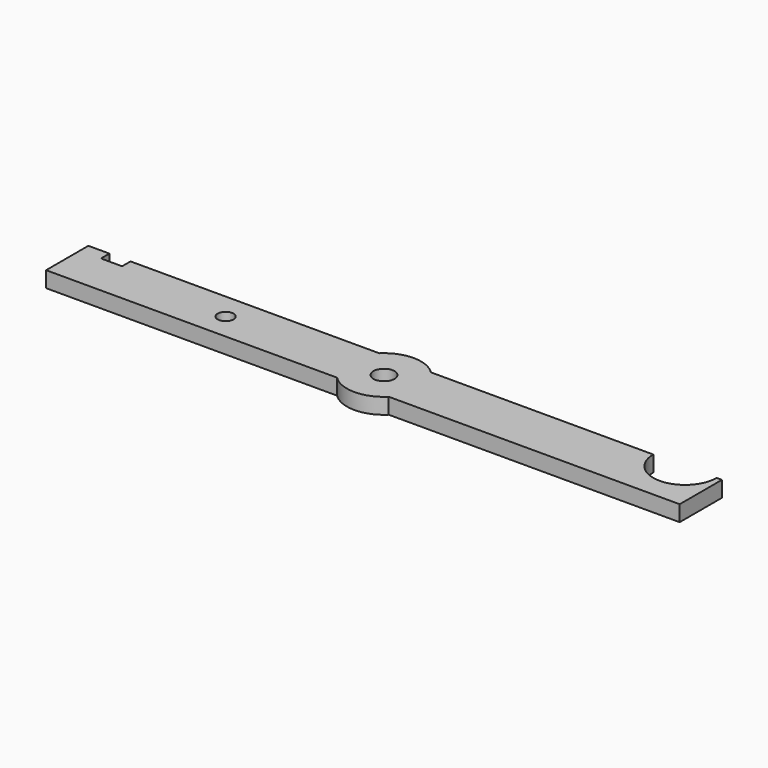
from build123d import *

# Parameters (mm, degrees)
F0_R     = 1.5
F0_R_2   = 2
F1_DEPTH = 3


with BuildPart() as f1:
    # F0 (on Top) → F1 (new body)
    with BuildSketch(Plane.XY):
        with BuildLine():
            Line((-56, 5), (-60, 5))
            Line((-60, 5), (-60, -5))
            Line((-60, -5), (-4.8989794856, -5))
            ThreePointArc((-4.8989794856, -5), (-7, 0), (-4.8989794856, 5))
            Line((-4.8989794856, 5), (-52, 5))
            Line((-52, 5), (-52, 3))
            Line((-52, 3), (-56, 3))
            Line((-56, 3), (-56, 5))
        make_face()
        with Locations((-30, 0)):
            Circle(F0_R, mode=Mode.SUBTRACT)
        with BuildLine():
            ThreePointArc((-4.8989794856, 5), (-7, 0), (-4.8989794856, -5))
            Line((-4.8989794856, -5), (4.8989794856, -5))
            ThreePointArc((4.8989794856, -5), (6.4534043883, -2.7117470016), (7, 0))
            ThreePointArc((7, 0), (6.4534043883, 2.7117470016), (4.8989794856, 5))
            Line((4.8989794856, 5), (-4.8989794856, 5))
        make_face()
        Circle(F0_R_2, mode=Mode.SUBTRACT)
        with BuildLine():
            Line((4.8989794856, -5), (-4.8989794856, -5))
            ThreePointArc((-4.8989794856, -5), (0, -7), (4.8989794856, -5))
        make_face()
        with BuildLine():
            ThreePointArc((4.8989794856, 5), (0, 7), (-4.8989794856, 5))
            Line((-4.8989794856, 5), (4.8989794856, 5))
        make_face()
        with BuildLine():
            ThreePointArc((7, 0), (6.4534043883, -2.7117470016), (4.8989794856, -5))
            Line((4.8989794856, -5), (60, -5))
            Line((60, -5), (60, 5))
            Line((60, 5), (59, 5))
            ThreePointArc((59, 5), (53, -1), (47, 5))
            Line((47, 5), (4.8989794856, 5))
            ThreePointArc((4.8989794856, 5), (6.4534043883, 2.7117470016), (7, 0))
        make_face()
    extrude(amount=F1_DEPTH)


solid = f1.part
